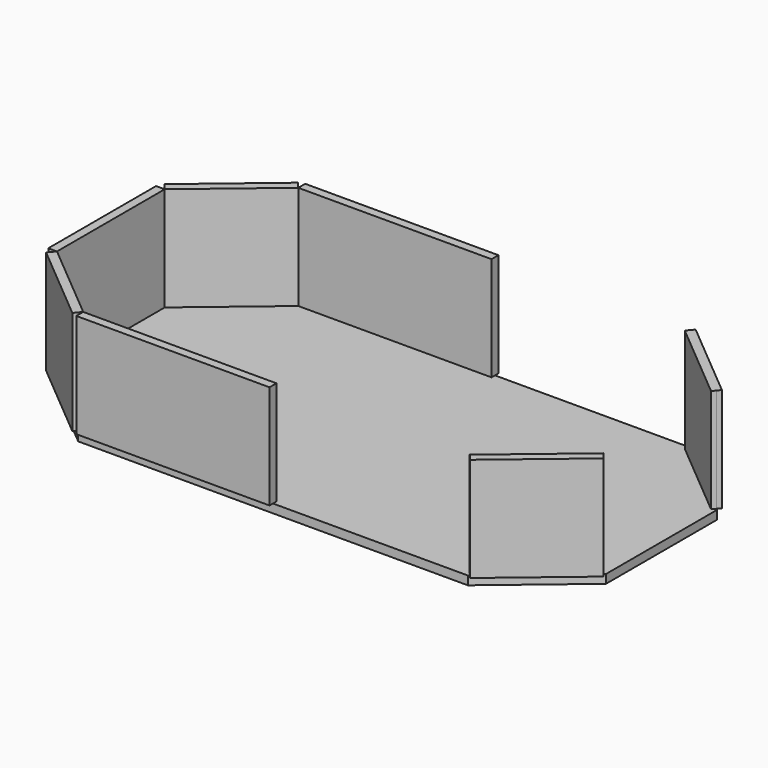
from build123d import *

# Parameters (mm, degrees)
F1_DEPTH = 3.175
F3_DEPTH = 38.1
F2_W     = 1.5875
F2_H     = 49.319474
F2_W_2   = 70.751656
F2_H_2   = 1.5875
F5_DEPTH = 38.1


with BuildPart() as f1:
    # F0 (on Top) → F1 (new body)
    with BuildSketch(Plane.XY):
        Polygon((50.8, 50.8), (-20.529459, 50.8), (-50.8, 25.4), (-50.8, -25.4), (-20.529459, -50.8), (50.8, -50.8), align=None)
    extrude(amount=F1_DEPTH)

    # F2 (on face) → F3 (join)
    with BuildSketch(Plane.XY.offset(3.175)):
        Polygon((-19.951656, -49.2125), (-49.2125, -24.659737), (-50.232925, -25.875832), (-20.972081, -50.428596), align=None)
        Polygon((-20.972081, -50.428596), (-50.232925, -25.875832), (-51.253351, -27.091928), (-21.992507, -51.644691), align=None)
        Polygon((-50.232925, 25.875832), (-20.972081, 50.428596), (-21.992507, 51.644691), (-51.253351, 27.091928), align=None)
        Polygon((-49.2125, 24.659737), (-19.951656, 49.2125), (-20.972081, 50.428596), (-50.232925, 25.875832), align=None)
    extrude(amount=F3_DEPTH)

    # F4: F1 across face


with BuildPart() as f1_1:
    add(f1.part)
    add(f1.part.mirror(Plane(origin=(50.8, 0, 1.5875), x_dir=(0, 1, 0), z_dir=(1, 0, 0))))


with BuildPart() as f5:
    # F2 (on face) → F5 (new body)
    with BuildSketch(Plane.XY.offset(3.175)):
        with Locations((-50.00625, 0)):
            Rectangle(F2_W, F2_H)
        with Locations((-51.59375, 0)):
            Rectangle(F2_W, F2_H)
        with Locations((15.424172, 51.59375)):
            Rectangle(F2_W_2, F2_H_2)
        with Locations((15.424172, 50.00625)):
            Rectangle(F2_W_2, F2_H_2)
        with Locations((15.424172, -50.00625)):
            Rectangle(F2_W_2, F2_H_2)
        with Locations((15.424172, -51.59375)):
            Rectangle(F2_W_2, F2_H_2)
    extrude(amount=F5_DEPTH)


solid = Compound([f1_1.part, f5.part])
